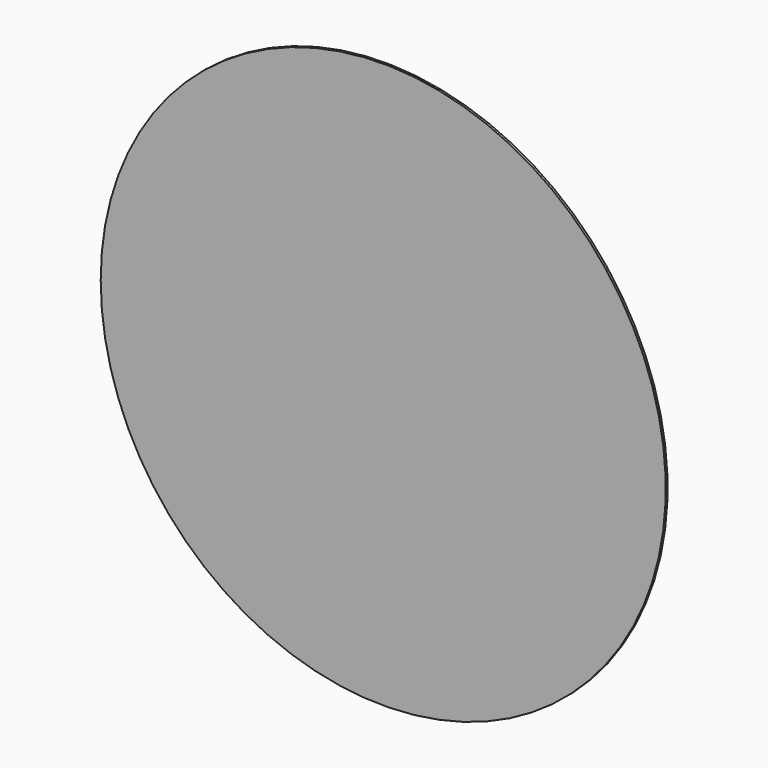
from build123d import *

# Parameters (mm, degrees)
SKETCH_R             = 25
PAD_DEPTH            = 0.2
SKETCH001_R          = 12.5
PAD001_DEPTH         = 0.5
PAD002_DEPTH         = 1
BODY_PLACEMENT_ANGLE = 180


with BuildPart() as part:
    # Sketch → Pad (new body)
    with BuildSketch(Plane.XZ):
        Circle(SKETCH_R)
    extrude(amount=PAD_DEPTH)

    # Sketch001 → Pad001 (join)
    with BuildSketch(Plane.XZ):
        Circle(SKETCH001_R)
    extrude(amount=PAD001_DEPTH)

    # Sketch002 → Pad002 (join)
    with BuildSketch(Plane.XZ):
        with BuildLine():
            ThreePointArc((-15.5, 3), (-18.5, 0), (-15.5, -3))
            Line((-15.5, -3), (-8.5, -3))
            ThreePointArc((-8.5, -3), (-5.5, 0), (-8.5, 3))
            Line((-15.5, 3), (-8.5, 3))
        make_face()
    extrude(amount=PAD002_DEPTH)


with BuildPart() as part_1:
    # Body placement: moved
    add(part.part.moved(Location((0, 1, 0))).rotate(Axis((0, 1, 0), (0, 0, 1)), BODY_PLACEMENT_ANGLE))


solid = part_1.part
